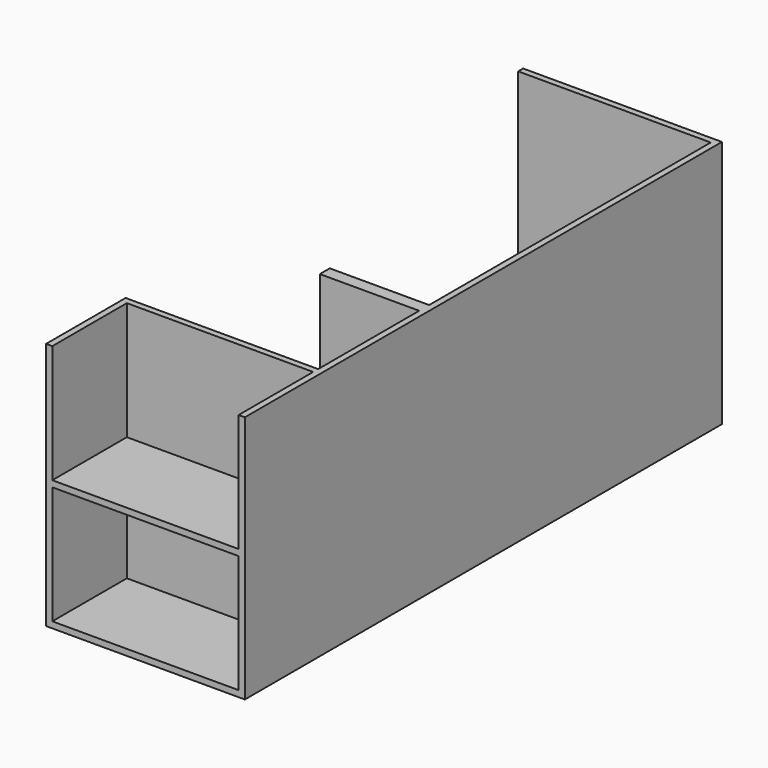
from build123d import *

# Parameters (mm, degrees)
F0_W     = 609.6
F0_H     = 762
F1_DEPTH = 304.8
F2_W     = 571.5
F2_H     = 361.95
F3_DEPTH = 285.75
F5_DEPTH = 762
F6_W     = 304.8
F6_H     = 19.05
F7_DEPTH = 1079.5


with BuildPart() as f1:
    # F0 (on Front) → F1 (new body)
    with BuildSketch(Plane.XZ):
        Rectangle(F0_W, F0_H)
    extrude(amount=F1_DEPTH)

    # F2 (on face) → F3 (cut, through all)
    with BuildSketch(Plane.XZ.offset(304.8)):
        with Locations((0, 200.025)):
            Rectangle(F2_W, F2_H)
        with Locations((0, -180.975)):
            Rectangle(F2_W, F2_H)
        with Locations((0, 200.025)):
            Rectangle(F2_W, F2_H)
    extrude(amount=-F3_DEPTH, mode=Mode.SUBTRACT)

    # F4 (on face) → F5 (join, through all)
    with BuildSketch(Plane.XY.offset(381)):
        Polygon((285.75, 0), (304.8, 0), (304.8, 1524), (-304.8, 1524), (-304.8, 1504.95), (285.75, 1504.95), (285.75, 425.45), (-19.05, 425.45), (-19.05, 387.35), (285.75, 387.35), align=None)
    extrude(amount=-F5_DEPTH)

    # F6 (on face) → F7 (join, through all)
    with BuildSketch(Plane.XZ.offset(-1504.95)):
        with Locations((133.35, -269.875)):
            Rectangle(F6_W, F6_H)
        with Locations((133.35, 60.325)):
            Rectangle(F6_W, F6_H)
    extrude(amount=F7_DEPTH)


solid = f1.part
